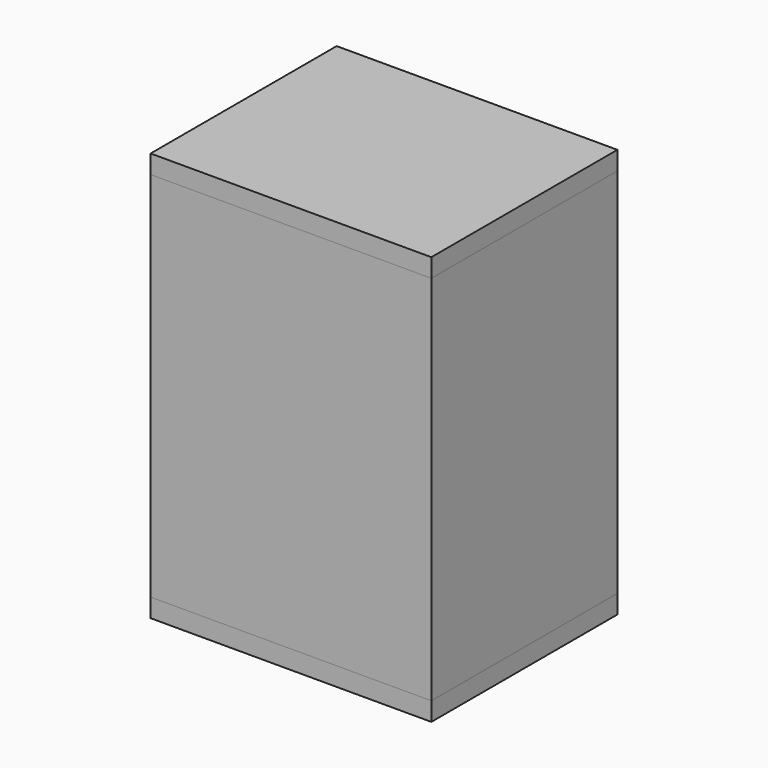
from build123d import *

# Parameters (mm, degrees)
F0_W     = 95.8667472005
F0_H     = 79.4047825038
F1_DEPTH = 6.35
F3_W     = 95.8667472005
F3_H     = 79.4047825038
F3_W_2   = 83.1667472005
F3_H_2   = 66.7047825038
F4_DEPTH = 127
F6_W     = 95.8667472005
F6_H     = 79.4047825038
F7_DEPTH = 6.35


with BuildPart() as f1:
    # F0 (on Top) → F1 (new body)
    with BuildSketch(Plane.XY):
        with Locations((2.9050521553, 7.3836762458)):
            Rectangle(F0_W, F0_H)
    extrude(amount=F1_DEPTH)


with BuildPart() as f4:
    # F3 (on offset) → F4 (new body)
    with BuildSketch(Plane.XY.offset(6.35)):
        with Locations((2.9050521553, 7.3836762458)):
            Rectangle(F3_W, F3_H)
        with Locations((2.9050521553, 7.3836762458)):
            Rectangle(F3_W_2, F3_H_2, mode=Mode.SUBTRACT)
    extrude(amount=F4_DEPTH)


with BuildPart() as f7:
    # F6 (on offset) → F7 (new body)
    with BuildSketch(Plane.XY.offset(133.35)):
        with Locations((2.9050521553, 7.3836762458)):
            Rectangle(F6_W, F6_H)
    extrude(amount=F7_DEPTH)


solid = Compound([f1.part, f4.part, f7.part])
